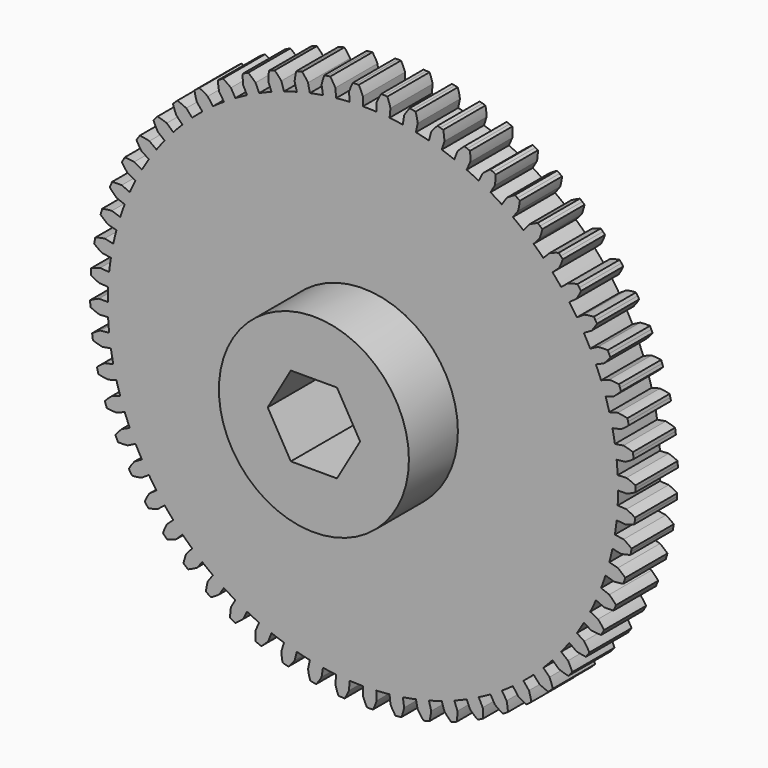
from build123d import *

# Parameters (mm, degrees)
F1_DEPTH = 6.35
F2_R     = 11.43
F3_DEPTH = 7.366
F5_DEPTH = 25.4


with BuildPart() as f1:
    # F0 (on Front) → F1 (new body)
    with BuildSketch(Plane.XZ):
        with BuildLine():
            ThreePointArc((30.649605, -1.606278), (30.681149, -0.803414), (30.691667, 0))
            ThreePointArc((30.691667, 0), (30.681149, 0.803414), (30.649605, 1.606278))
            ThreePointArc((30.649605, 1.606278), (30.597055, 2.40804), (30.523535, 3.208153))
            ThreePointArc((30.523535, 3.208153), (30.429095, 4.006066), (30.313801, 4.801234))
            ThreePointArc((30.313801, 4.801234), (30.177732, 5.593112), (30.02098, 6.381156))
            ThreePointArc((30.02098, 6.381156), (29.843653, 7.164827), (29.645873, 7.943588))
            ThreePointArc((29.645873, 7.943588), (29.427776, 8.716904), (29.18951, 9.484247))
            ThreePointArc((29.18951, 9.484247), (28.931238, 10.245089), (28.653139, 10.99891))
            ThreePointArc((28.653139, 10.99891), (28.355403, 11.745192), (28.038233, 12.483425))
            ThreePointArc((28.038233, 12.483425), (27.701847, 13.213103), (27.346475, 13.933725))
            ThreePointArc((27.346475, 13.933725), (26.972362, 14.644798), (26.579763, 15.345833))
            ThreePointArc((26.579763, 15.345833), (26.168948, 16.036352), (25.740198, 16.71588))
            ThreePointArc((25.740198, 16.71588), (25.293806, 17.383951), (24.83008, 18.040109))
            ThreePointArc((24.83008, 18.040109), (24.349336, 18.683903), (23.851905, 19.314892))
            ThreePointArc((23.851905, 19.314892), (23.338126, 19.932643), (22.808353, 20.536734))
            ThreePointArc((22.808353, 20.536734), (22.262948, 21.126749), (21.702286, 21.702286))
            ThreePointArc((21.702286, 21.702286), (21.126749, 22.262948), (20.536734, 22.808353))
            ThreePointArc((20.536734, 22.808353), (19.932643, 23.338126), (19.314892, 23.851905))
            ThreePointArc((19.314892, 23.851905), (18.683903, 24.349336), (18.040109, 24.83008))
            ThreePointArc((18.040109, 24.83008), (17.383951, 25.293806), (16.71588, 25.740198))
            ThreePointArc((16.71588, 25.740198), (16.036352, 26.168948), (15.345833, 26.579763))
            ThreePointArc((15.345833, 26.579763), (14.644798, 26.972362), (13.933725, 27.346475))
            ThreePointArc((13.933725, 27.346475), (13.213103, 27.701847), (12.483425, 28.038233))
            ThreePointArc((12.483425, 28.038233), (11.745192, 28.355403), (10.99891, 28.653139))
            ThreePointArc((10.99891, 28.653139), (10.245089, 28.931238), (9.484247, 29.18951))
            ThreePointArc((9.484247, 29.18951), (8.716904, 29.427776), (7.943588, 29.645873))
            ThreePointArc((7.943588, 29.645873), (7.164827, 29.843653), (6.381156, 30.02098))
            ThreePointArc((6.381156, 30.02098), (5.593112, 30.177732), (4.801234, 30.313801))
            ThreePointArc((4.801234, 30.313801), (4.006066, 30.429095), (3.208153, 30.523535))
            ThreePointArc((3.208153, 30.523535), (2.40804, 30.597055), (1.606278, 30.649605))
            ThreePointArc((1.606278, 30.649605), (0.803414, 30.681149), (0, 30.691667))
            ThreePointArc((0, 30.691667), (-0.803414, 30.681149), (-1.606278, 30.649605))
            ThreePointArc((-1.606278, 30.649605), (-2.40804, 30.597055), (-3.208153, 30.523535))
            ThreePointArc((-3.208153, 30.523535), (-4.006066, 30.429095), (-4.801234, 30.313801))
            ThreePointArc((-4.801234, 30.313801), (-5.593112, 30.177732), (-6.381156, 30.02098))
            ThreePointArc((-6.381156, 30.02098), (-7.164827, 29.843653), (-7.943588, 29.645873))
            ThreePointArc((-7.943588, 29.645873), (-8.716904, 29.427776), (-9.484247, 29.18951))
            ThreePointArc((-9.484247, 29.18951), (-10.245089, 28.931238), (-10.99891, 28.653139))
            ThreePointArc((-10.99891, 28.653139), (-11.745192, 28.355403), (-12.483425, 28.038233))
            ThreePointArc((-12.483425, 28.038233), (-13.213103, 27.701847), (-13.933725, 27.346475))
            ThreePointArc((-13.933725, 27.346475), (-14.644798, 26.972362), (-15.345833, 26.579763))
            ThreePointArc((-15.345833, 26.579763), (-16.036352, 26.168948), (-16.71588, 25.740198))
            ThreePointArc((-16.71588, 25.740198), (-17.383951, 25.293806), (-18.040109, 24.83008))
            ThreePointArc((-18.040109, 24.83008), (-18.683903, 24.349336), (-19.314892, 23.851905))
            ThreePointArc((-19.314892, 23.851905), (-19.932643, 23.338126), (-20.536734, 22.808353))
            ThreePointArc((-20.536734, 22.808353), (-21.126749, 22.262948), (-21.702286, 21.702286))
            ThreePointArc((-21.702286, 21.702286), (-22.262948, 21.126749), (-22.808353, 20.536734))
            ThreePointArc((-22.808353, 20.536734), (-23.338126, 19.932643), (-23.851905, 19.314892))
            ThreePointArc((-23.851905, 19.314892), (-24.349336, 18.683903), (-24.83008, 18.040109))
            ThreePointArc((-24.83008, 18.040109), (-25.293806, 17.383951), (-25.740198, 16.71588))
            ThreePointArc((-25.740198, 16.71588), (-26.168948, 16.036352), (-26.579763, 15.345833))
            ThreePointArc((-26.579763, 15.345833), (-26.972362, 14.644798), (-27.346475, 13.933725))
            ThreePointArc((-27.346475, 13.933725), (-27.701847, 13.213103), (-28.038233, 12.483425))
            ThreePointArc((-28.038233, 12.483425), (-28.355403, 11.745192), (-28.653139, 10.99891))
            ThreePointArc((-28.653139, 10.99891), (-28.931238, 10.245089), (-29.18951, 9.484247))
            ThreePointArc((-29.18951, 9.484247), (-29.427776, 8.716904), (-29.645873, 7.943588))
            ThreePointArc((-29.645873, 7.943588), (-29.843653, 7.164827), (-30.02098, 6.381156))
            ThreePointArc((-30.02098, 6.381156), (-30.177732, 5.593112), (-30.313801, 4.801234))
            ThreePointArc((-30.313801, 4.801234), (-30.429095, 4.006066), (-30.523535, 3.208153))
            ThreePointArc((-30.523535, 3.208153), (-30.597055, 2.40804), (-30.649605, 1.606278))
            ThreePointArc((-30.649605, 1.606278), (-30.681149, 0.803414), (-30.691667, 0))
            ThreePointArc((-30.691667, 0), (-30.681149, -0.803414), (-30.649605, -1.606278))
            ThreePointArc((-30.649605, -1.606278), (-30.597055, -2.40804), (-30.523535, -3.208153))
            ThreePointArc((-30.523535, -3.208153), (-30.429095, -4.006066), (-30.313801, -4.801234))
            ThreePointArc((-30.313801, -4.801234), (-30.177732, -5.593112), (-30.02098, -6.381156))
            ThreePointArc((-30.02098, -6.381156), (-29.843653, -7.164827), (-29.645873, -7.943588))
            ThreePointArc((-29.645873, -7.943588), (-29.427776, -8.716904), (-29.18951, -9.484247))
            ThreePointArc((-29.18951, -9.484247), (-28.931238, -10.245089), (-28.653139, -10.99891))
            ThreePointArc((-28.653139, -10.99891), (-28.355403, -11.745192), (-28.038233, -12.483425))
            ThreePointArc((-28.038233, -12.483425), (-27.701847, -13.213103), (-27.346475, -13.933725))
            ThreePointArc((-27.346475, -13.933725), (-26.972362, -14.644798), (-26.579763, -15.345833))
            ThreePointArc((-26.579763, -15.345833), (-26.168948, -16.036352), (-25.740198, -16.71588))
            ThreePointArc((-25.740198, -16.71588), (-25.293806, -17.383951), (-24.83008, -18.040109))
            ThreePointArc((-24.83008, -18.040109), (-24.349336, -18.683903), (-23.851905, -19.314892))
            ThreePointArc((-23.851905, -19.314892), (-23.338126, -19.932643), (-22.808353, -20.536734))
            ThreePointArc((-22.808353, -20.536734), (-22.262948, -21.126749), (-21.702286, -21.702286))
            ThreePointArc((-21.702286, -21.702286), (-21.126749, -22.262948), (-20.536734, -22.808353))
            ThreePointArc((-20.536734, -22.808353), (-19.932643, -23.338126), (-19.314892, -23.851905))
            ThreePointArc((-19.314892, -23.851905), (-18.683903, -24.349336), (-18.040109, -24.83008))
            ThreePointArc((-18.040109, -24.83008), (-17.383951, -25.293806), (-16.71588, -25.740198))
            ThreePointArc((-16.71588, -25.740198), (-16.036352, -26.168948), (-15.345833, -26.579763))
            ThreePointArc((-15.345833, -26.579763), (-14.644798, -26.972362), (-13.933725, -27.346475))
            ThreePointArc((-13.933725, -27.346475), (-13.213103, -27.701847), (-12.483425, -28.038233))
            ThreePointArc((-12.483425, -28.038233), (-11.745192, -28.355403), (-10.99891, -28.653139))
            ThreePointArc((-10.99891, -28.653139), (-10.245089, -28.931238), (-9.484247, -29.18951))
            ThreePointArc((-9.484247, -29.18951), (-8.716904, -29.427776), (-7.943588, -29.645873))
            ThreePointArc((-7.943588, -29.645873), (-7.164827, -29.843653), (-6.381156, -30.02098))
            ThreePointArc((-6.381156, -30.02098), (-5.593112, -30.177732), (-4.801234, -30.313801))
            ThreePointArc((-4.801234, -30.313801), (-4.006066, -30.429095), (-3.208153, -30.523535))
            ThreePointArc((-3.208153, -30.523535), (-2.40804, -30.597055), (-1.606278, -30.649605))
            ThreePointArc((-1.606278, -30.649605), (-0.803414, -30.681149), (0, -30.691667))
            ThreePointArc((0, -30.691667), (0.803414, -30.681149), (1.606278, -30.649605))
            ThreePointArc((1.606278, -30.649605), (2.40804, -30.597055), (3.208153, -30.523535))
            ThreePointArc((3.208153, -30.523535), (4.006066, -30.429095), (4.801234, -30.313801))
            ThreePointArc((4.801234, -30.313801), (5.593112, -30.177732), (6.381156, -30.02098))
            ThreePointArc((6.381156, -30.02098), (7.164827, -29.843653), (7.943588, -29.645873))
            ThreePointArc((7.943588, -29.645873), (8.716904, -29.427776), (9.484247, -29.18951))
            ThreePointArc((9.484247, -29.18951), (10.245089, -28.931238), (10.99891, -28.653139))
            ThreePointArc((10.99891, -28.653139), (11.745192, -28.355403), (12.483425, -28.038233))
            ThreePointArc((12.483425, -28.038233), (13.213103, -27.701847), (13.933725, -27.346475))
            ThreePointArc((13.933725, -27.346475), (14.644798, -26.972362), (15.345833, -26.579763))
            ThreePointArc((15.345833, -26.579763), (16.036352, -26.168948), (16.71588, -25.740198))
            ThreePointArc((16.71588, -25.740198), (17.383951, -25.293806), (18.040109, -24.83008))
            ThreePointArc((18.040109, -24.83008), (18.683903, -24.349336), (19.314892, -23.851905))
            ThreePointArc((19.314892, -23.851905), (19.932643, -23.338126), (20.536734, -22.808353))
            ThreePointArc((20.536734, -22.808353), (21.126749, -22.262948), (21.702286, -21.702286))
            ThreePointArc((21.702286, -21.702286), (22.262948, -21.126749), (22.808353, -20.536734))
            ThreePointArc((22.808353, -20.536734), (23.338126, -19.932643), (23.851905, -19.314892))
            ThreePointArc((23.851905, -19.314892), (24.349336, -18.683903), (24.83008, -18.040109))
            ThreePointArc((24.83008, -18.040109), (25.293806, -17.383951), (25.740198, -16.71588))
            ThreePointArc((25.740198, -16.71588), (26.168948, -16.036352), (26.579763, -15.345833))
            ThreePointArc((26.579763, -15.345833), (26.972362, -14.644798), (27.346475, -13.933725))
            ThreePointArc((27.346475, -13.933725), (27.701847, -13.213103), (28.038233, -12.483425))
            ThreePointArc((28.038233, -12.483425), (28.355403, -11.745192), (28.653139, -10.99891))
            ThreePointArc((28.653139, -10.99891), (28.931238, -10.245089), (29.18951, -9.484247))
            ThreePointArc((29.18951, -9.484247), (29.427776, -8.716904), (29.645873, -7.943588))
            ThreePointArc((29.645873, -7.943588), (29.843653, -7.164827), (30.02098, -6.381156))
            ThreePointArc((30.02098, -6.381156), (30.177732, -5.593112), (30.313801, -4.801234))
            ThreePointArc((30.313801, -4.801234), (30.429095, -4.006066), (30.523535, -3.208153))
            ThreePointArc((30.523535, -3.208153), (30.597055, -2.40804), (30.649605, -1.606278))
        make_face()
        with BuildLine():
            Line((1.661667, -31.706488), (1.606278, -30.649605))
            ThreePointArc((1.606278, -30.649605), (0.803414, -30.681149), (0, -30.691667))
            Line((0, -30.691667), (0, -31.75))
            ThreePointArc((0, -31.75), (0.22927, -32.286426), (0.497319, -32.804564))
            ThreePointArc((0.497319, -32.804564), (0.678081, -32.801325), (0.858822, -32.797091))
            ThreePointArc((0.858822, -32.797091), (1.039537, -32.79186), (1.220221, -32.785634))
            ThreePointArc((1.220221, -32.785634), (1.460785, -32.254177), (1.661667, -31.706488))
        make_face()
        with BuildLine():
            ThreePointArc((-30.649605, 1.606278), (-30.597055, 2.40804), (-30.523535, 3.208153))
            Line((-30.523535, 3.208153), (-31.57607, 3.318779))
            ThreePointArc((-31.57607, 3.318779), (-32.133523, 3.146836), (-32.676841, 2.934416))
            ThreePointArc((-32.676841, 2.934416), (-32.692515, 2.754306), (-32.707196, 2.574112))
            ThreePointArc((-32.707196, 2.574112), (-32.720884, 2.39384), (-32.733579, 2.213496))
            ThreePointArc((-32.733579, 2.213496), (-32.230179, 1.918697), (-31.706488, 1.661667))
            Line((-31.706488, 1.661667), (-30.649605, 1.606278))
        make_face()
        with BuildLine():
            Line((-31.706488, -1.661667), (-30.649605, -1.606278))
            ThreePointArc((-30.649605, -1.606278), (-30.681149, -0.803414), (-30.691667, 0))
            Line((-30.691667, 0), (-31.75, 0))
            ThreePointArc((-31.75, 0), (-32.286426, -0.22927), (-32.804564, -0.497319))
            ThreePointArc((-32.804564, -0.497319), (-32.801325, -0.678081), (-32.797091, -0.858822))
            ThreePointArc((-32.797091, -0.858822), (-32.79186, -1.039537), (-32.785634, -1.220221))
            ThreePointArc((-32.785634, -1.220221), (-32.254177, -1.460785), (-31.706488, -1.661667))
        make_face()
        with BuildLine():
            ThreePointArc((-21.702286, 21.702286), (-21.126749, 22.262948), (-20.536734, 22.808353))
            Line((-20.536734, 22.808353), (-21.244897, 23.594848))
            ThreePointArc((-21.244897, 23.594848), (-21.774217, 23.840079), (-22.320118, 24.045771))
            ThreePointArc((-22.320118, 24.045771), (-22.452283, 23.922411), (-22.583766, 23.798324))
            ThreePointArc((-22.583766, 23.798324), (-22.714564, 23.673515), (-22.844672, 23.547987))
            ThreePointArc((-22.844672, 23.547987), (-22.667832, 22.992069), (-22.45064, 22.45064))
            Line((-22.45064, 22.45064), (-21.702286, 21.702286))
        make_face()
        with BuildLine():
            Line((28.289457, -14.414198), (27.346475, -13.933725))
            ThreePointArc((27.346475, -13.933725), (26.972362, -14.644798), (26.579763, -15.345833))
            Line((26.579763, -15.345833), (27.496307, -15.875))
            ThreePointArc((27.496307, -15.875), (28.0755, -15.944659), (28.658245, -15.971591))
            ThreePointArc((28.658245, -15.971591), (28.745821, -15.813427), (28.832525, -15.654784))
            ThreePointArc((28.832525, -15.654784), (28.918353, -15.495665), (29.003302, -15.336075))
            ThreePointArc((29.003302, -15.336075), (28.66333, -14.862012), (28.289457, -14.414198))
        make_face()
        with BuildLine():
            Line((-17.292289, -26.627791), (-16.71588, -25.740198))
            ThreePointArc((-16.71588, -25.740198), (-17.383951, -25.293806), (-18.040109, -24.83008))
            Line((-18.040109, -24.83008), (-18.662182, -25.68629))
            ThreePointArc((-18.662182, -25.68629), (-18.792001, -26.255029), (-18.879699, -26.831766))
            ThreePointArc((-18.879699, -26.831766), (-18.731556, -26.935396), (-18.582845, -27.038207))
            ThreePointArc((-18.582845, -27.038207), (-18.433569, -27.140197), (-18.283733, -27.241363))
            ThreePointArc((-18.283733, -27.241363), (-17.77673, -26.952806), (-17.292289, -26.627791))
        make_face()
        with BuildLine():
            Line((-8.217505, -30.668145), (-7.943588, -29.645873))
            ThreePointArc((-7.943588, -29.645873), (-8.716904, -29.427776), (-9.484247, -29.18951))
            Line((-9.484247, -29.18951), (-9.81129, -30.196044))
            ThreePointArc((-9.81129, -30.196044), (-9.759005, -30.777064), (-9.664189, -31.352674))
            ThreePointArc((-9.664189, -31.352674), (-9.491274, -31.405453), (-9.31807, -31.457277))
            ThreePointArc((-9.31807, -31.457277), (-9.144583, -31.508147), (-8.970819, -31.55806))
            ThreePointArc((-8.970819, -31.55806), (-8.5778, -31.126953), (-8.217505, -30.668145))
        make_face()
        with BuildLine():
            Line((-4.966794, -31.359105), (-4.801234, -30.313801))
            ThreePointArc((-4.801234, -30.313801), (-5.593112, -30.177732), (-6.381156, -30.02098))
            Line((-6.381156, -30.02098), (-6.601196, -31.056186))
            ThreePointArc((-6.601196, -31.056186), (-6.488465, -31.628558), (-6.334001, -32.191104))
            ThreePointArc((-6.334001, -32.191104), (-6.156516, -32.225519), (-5.978844, -32.258955))
            ThreePointArc((-5.978844, -32.258955), (-5.80099, -32.291411), (-5.622961, -32.322887))
            ThreePointArc((-5.622961, -32.322887), (-5.277157, -31.853061), (-4.966794, -31.359105))
        make_face()
        with BuildLine():
            ThreePointArc((-29.645873, 7.943588), (-29.427776, 8.716904), (-29.18951, 9.484247))
            Line((-29.18951, 9.484247), (-30.196044, 9.81129))
            ThreePointArc((-30.196044, 9.81129), (-30.777064, 9.759005), (-31.352674, 9.664189))
            ThreePointArc((-31.352674, 9.664189), (-31.405453, 9.491274), (-31.457277, 9.31807))
            ThreePointArc((-31.457277, 9.31807), (-31.508147, 9.144583), (-31.55806, 8.970819))
            ThreePointArc((-31.55806, 8.970819), (-31.126953, 8.5778), (-30.668145, 8.217505))
            Line((-30.668145, 8.217505), (-29.645873, 7.943588))
        make_face()
        with BuildLine():
            Line((-1.661667, -31.706488), (-1.606278, -30.649605))
            ThreePointArc((-1.606278, -30.649605), (-2.40804, -30.597055), (-3.208153, -30.523535))
            Line((-3.208153, -30.523535), (-3.318779, -31.57607))
            ThreePointArc((-3.318779, -31.57607), (-3.146836, -32.133523), (-2.934416, -32.676841))
            ThreePointArc((-2.934416, -32.676841), (-2.754306, -32.692515), (-2.574112, -32.707196))
            ThreePointArc((-2.574112, -32.707196), (-2.39384, -32.720884), (-2.213496, -32.733579))
            ThreePointArc((-2.213496, -32.733579), (-1.918697, -32.230179), (-1.661667, -31.706488))
        make_face()
        with BuildLine():
            ThreePointArc((-30.313801, 4.801234), (-30.177732, 5.593112), (-30.02098, 6.381156))
            Line((-30.02098, 6.381156), (-31.056186, 6.601196))
            ThreePointArc((-31.056186, 6.601196), (-31.628558, 6.488465), (-32.191104, 6.334001))
            ThreePointArc((-32.191104, 6.334001), (-32.225519, 6.156516), (-32.258955, 5.978844))
            ThreePointArc((-32.258955, 5.978844), (-32.291411, 5.80099), (-32.322887, 5.622961))
            ThreePointArc((-32.322887, 5.622961), (-31.853061, 5.277157), (-31.359105, 4.966794))
            Line((-31.359105, 4.966794), (-30.313801, 4.801234))
        make_face()
        with BuildLine():
            ThreePointArc((19.314892, 23.851905), (19.932643, 23.338126), (20.536734, 22.808353))
            Line((20.536734, 22.808353), (21.244897, 23.594848))
            ThreePointArc((21.244897, 23.594848), (21.433455, 24.146902), (21.580958, 24.711313))
            ThreePointArc((21.580958, 24.711313), (21.444458, 24.82986), (21.307308, 24.947652))
            ThreePointArc((21.307308, 24.947652), (21.169511, 25.064687), (21.03107, 25.180961))
            ThreePointArc((21.03107, 25.180961), (20.496682, 24.946981), (19.980922, 24.674384))
            Line((19.980922, 24.674384), (19.314892, 23.851905))
        make_face()
        with BuildLine():
            ThreePointArc((16.71588, 25.740198), (17.383951, 25.293806), (18.040109, 24.83008))
            Line((18.040109, 24.83008), (18.662182, 25.68629))
            ThreePointArc((18.662182, 25.68629), (18.792001, 26.255029), (18.879699, 26.831766))
            ThreePointArc((18.879699, 26.831766), (18.731556, 26.935396), (18.582845, 27.038207))
            ThreePointArc((18.582845, 27.038207), (18.433569, 27.140197), (18.283733, 27.241363))
            ThreePointArc((18.283733, 27.241363), (17.77673, 26.952806), (17.292289, 26.627791))
            Line((17.292289, 26.627791), (16.71588, 25.740198))
        make_face()
        with BuildLine():
            ThreePointArc((13.933725, 27.346475), (14.644798, 26.972362), (15.345833, 26.579763))
            Line((15.345833, 26.579763), (15.875, 27.496307))
            ThreePointArc((15.875, 27.496307), (15.944659, 28.0755), (15.971591, 28.658245))
            ThreePointArc((15.971591, 28.658245), (15.813427, 28.745821), (15.654784, 28.832525))
            ThreePointArc((15.654784, 28.832525), (15.495665, 28.918353), (15.336075, 29.003302))
            ThreePointArc((15.336075, 29.003302), (14.862012, 28.66333), (14.414198, 28.289457))
            Line((14.414198, 28.289457), (13.933725, 27.346475))
        make_face()
        with BuildLine():
            Line((-31.359105, -4.966794), (-30.313801, -4.801234))
            ThreePointArc((-30.313801, -4.801234), (-30.429095, -4.006066), (-30.523535, -3.208153))
            Line((-30.523535, -3.208153), (-31.57607, -3.318779))
            ThreePointArc((-31.57607, -3.318779), (-32.085592, -3.602865), (-32.572873, -3.923605))
            ThreePointArc((-32.572873, -3.923605), (-32.550757, -4.103038), (-32.527653, -4.282347))
            ThreePointArc((-32.527653, -4.282347), (-32.503562, -4.461525), (-32.478483, -4.640568))
            ThreePointArc((-32.478483, -4.640568), (-31.924792, -4.824262), (-31.359105, -4.966794))
        make_face()
        with BuildLine():
            Line((8.217505, -30.668145), (7.943588, -29.645873))
            ThreePointArc((7.943588, -29.645873), (7.164827, -29.843653), (6.381156, -30.02098))
            Line((6.381156, -30.02098), (6.601196, -31.056186))
            ThreePointArc((6.601196, -31.056186), (6.936985, -31.533222), (7.306904, -31.984307))
            ThreePointArc((7.306904, -31.984307), (7.483042, -31.943557), (7.658953, -31.901836))
            ThreePointArc((7.658953, -31.901836), (7.834632, -31.859147), (8.010073, -31.815491))
            ThreePointArc((8.010073, -31.815491), (8.134884, -31.245632), (8.217505, -30.668145))
        make_face()
        with BuildLine():
            Line((4.966794, -31.359105), (4.801234, -30.313801))
            ThreePointArc((4.801234, -30.313801), (4.006066, -30.429095), (3.208153, -30.523535))
            Line((3.208153, -30.523535), (3.318779, -31.57607))
            ThreePointArc((3.318779, -31.57607), (3.602865, -32.085592), (3.923605, -32.572873))
            ThreePointArc((3.923605, -32.572873), (4.103038, -32.550757), (4.282347, -32.527653))
            ThreePointArc((4.282347, -32.527653), (4.461525, -32.503562), (4.640568, -32.478483))
            ThreePointArc((4.640568, -32.478483), (4.824262, -31.924792), (4.966794, -31.359105))
        make_face()
        with BuildLine():
            ThreePointArc((-4.801234, 30.313801), (-4.006066, 30.429095), (-3.208153, 30.523535))
            Line((-3.208153, 30.523535), (-3.318779, 31.57607))
            ThreePointArc((-3.318779, 31.57607), (-3.602865, 32.085592), (-3.923605, 32.572873))
            ThreePointArc((-3.923605, 32.572873), (-4.103038, 32.550757), (-4.282347, 32.527653))
            ThreePointArc((-4.282347, 32.527653), (-4.461525, 32.503562), (-4.640568, 32.478483))
            ThreePointArc((-4.640568, 32.478483), (-4.824262, 31.924792), (-4.966794, 31.359105))
            Line((-4.966794, 31.359105), (-4.801234, 30.313801))
        make_face()
        with BuildLine():
            Line((11.378182, -29.641179), (10.99891, -28.653139))
            ThreePointArc((10.99891, -28.653139), (10.245089, -28.931238), (9.484247, -29.18951))
            Line((9.484247, -29.18951), (9.81129, -30.196044))
            ThreePointArc((9.81129, -30.196044), (10.195103, -30.635367), (10.610146, -31.045314))
            ThreePointArc((10.610146, -31.045314), (10.78106, -30.986376), (10.951647, -30.926496))
            ThreePointArc((10.951647, -30.926496), (11.121901, -30.865678), (11.291817, -30.803922))
            ThreePointArc((11.291817, -30.803922), (11.356378, -30.224138), (11.378182, -29.641179))
        make_face()
        with BuildLine():
            Line((-30.668145, -8.217505), (-29.645873, -7.943588))
            ThreePointArc((-29.645873, -7.943588), (-29.843653, -7.164827), (-30.02098, -6.381156))
            Line((-30.02098, -6.381156), (-31.056186, -6.601196))
            ThreePointArc((-31.056186, -6.601196), (-31.533222, -6.936985), (-31.984307, -7.306904))
            ThreePointArc((-31.984307, -7.306904), (-31.943557, -7.483042), (-31.901836, -7.658953))
            ThreePointArc((-31.901836, -7.658953), (-31.859147, -7.834632), (-31.815491, -8.010073))
            ThreePointArc((-31.815491, -8.010073), (-31.245632, -8.134884), (-30.668145, -8.217505))
        make_face()
        with BuildLine():
            ThreePointArc((-7.943588, 29.645873), (-7.164827, 29.843653), (-6.381156, 30.02098))
            Line((-6.381156, 30.02098), (-6.601196, 31.056186))
            ThreePointArc((-6.601196, 31.056186), (-6.936985, 31.533222), (-7.306904, 31.984307))
            ThreePointArc((-7.306904, 31.984307), (-7.483042, 31.943557), (-7.658953, 31.901836))
            ThreePointArc((-7.658953, 31.901836), (-7.834632, 31.859147), (-8.010073, 31.815491))
            ThreePointArc((-8.010073, 31.815491), (-8.134884, 31.245632), (-8.217505, 30.668145))
            Line((-8.217505, 30.668145), (-7.943588, 29.645873))
        make_face()
        with BuildLine():
            Line((14.414198, -28.289457), (13.933725, -27.346475))
            ThreePointArc((13.933725, -27.346475), (13.213103, -27.701847), (12.483425, -28.038233))
            Line((12.483425, -28.038233), (12.913888, -29.005068))
            ThreePointArc((12.913888, -29.005068), (13.341521, -29.401865), (13.797142, -29.766182))
            ThreePointArc((13.797142, -29.766182), (13.960959, -29.689701), (14.124352, -29.612319))
            ThreePointArc((14.124352, -29.612319), (14.287316, -29.534037), (14.449846, -29.454859))
            ThreePointArc((14.449846, -29.454859), (14.453449, -28.871502), (14.414198, -28.289457))
        make_face()
        with BuildLine():
            ThreePointArc((-10.99891, 28.653139), (-10.245089, 28.931238), (-9.484247, 29.18951))
            Line((-9.484247, 29.18951), (-9.81129, 30.196044))
            ThreePointArc((-9.81129, 30.196044), (-10.195103, 30.635367), (-10.610146, 31.045314))
            ThreePointArc((-10.610146, 31.045314), (-10.78106, 30.986376), (-10.951647, 30.926496))
            ThreePointArc((-10.951647, 30.926496), (-11.121901, 30.865678), (-11.291817, 30.803922))
            ThreePointArc((-11.291817, 30.803922), (-11.356378, 30.224138), (-11.378182, 29.641179))
            Line((-11.378182, 29.641179), (-10.99891, 28.653139))
        make_face()
        with BuildLine():
            Line((17.292289, -26.627791), (16.71588, -25.740198))
            ThreePointArc((16.71588, -25.740198), (16.036352, -26.168948), (15.345833, -26.579763))
            Line((15.345833, -26.579763), (15.875, -27.496307))
            ThreePointArc((15.875, -27.496307), (16.341767, -27.84623), (16.832973, -28.160926))
            ThreePointArc((16.832973, -28.160926), (16.987898, -28.067741), (17.142307, -27.973703))
            ThreePointArc((17.142307, -27.973703), (17.296196, -27.878815), (17.449559, -27.783082))
            ThreePointArc((17.449559, -27.783082), (17.392166, -27.202544), (17.292289, -26.627791))
        make_face()
        with BuildLine():
            Line((-28.289457, -14.414198), (-27.346475, -13.933725))
            ThreePointArc((-27.346475, -13.933725), (-27.701847, -13.213103), (-28.038233, -12.483425))
            Line((-28.038233, -12.483425), (-29.005068, -12.913888))
            ThreePointArc((-29.005068, -12.913888), (-29.401865, -13.341521), (-29.766182, -13.797142))
            ThreePointArc((-29.766182, -13.797142), (-29.689701, -13.960959), (-29.612319, -14.124352))
            ThreePointArc((-29.612319, -14.124352), (-29.534037, -14.287316), (-29.454859, -14.449846))
            ThreePointArc((-29.454859, -14.449846), (-28.871502, -14.453449), (-28.289457, -14.414198))
        make_face()
        with BuildLine():
            ThreePointArc((-13.933725, 27.346475), (-13.213103, 27.701847), (-12.483425, 28.038233))
            Line((-12.483425, 28.038233), (-12.913888, 29.005068))
            ThreePointArc((-12.913888, 29.005068), (-13.341521, 29.401865), (-13.797142, 29.766182))
            ThreePointArc((-13.797142, 29.766182), (-13.960959, 29.689701), (-14.124352, 29.612319))
            ThreePointArc((-14.124352, 29.612319), (-14.287316, 29.534037), (-14.449846, 29.454859))
            ThreePointArc((-14.449846, 29.454859), (-14.453449, 28.871502), (-14.414198, 28.289457))
            Line((-14.414198, 28.289457), (-13.933725, 27.346475))
        make_face()
        with BuildLine():
            Line((19.980922, -24.674384), (19.314892, -23.851905))
            ThreePointArc((19.314892, -23.851905), (18.683903, -24.349336), (18.040109, -24.83008))
            Line((18.040109, -24.83008), (18.662182, -25.68629))
            ThreePointArc((18.662182, -25.68629), (19.162968, -25.985506), (19.684378, -26.247133))
            ThreePointArc((19.684378, -26.247133), (19.828714, -26.138264), (19.972448, -26.028601))
            ThreePointArc((19.972448, -26.028601), (20.115575, -25.918148), (20.258091, -25.806907))
            ThreePointArc((20.258091, -25.806907), (20.14033, -25.23555), (19.980922, -24.674384))
        make_face()
        with BuildLine():
            Line((-26.627791, -17.292289), (-25.740198, -16.71588))
            ThreePointArc((-25.740198, -16.71588), (-26.168948, -16.036352), (-26.579763, -15.345833))
            Line((-26.579763, -15.345833), (-27.496307, -15.875))
            ThreePointArc((-27.496307, -15.875), (-27.84623, -16.341767), (-28.160926, -16.832973))
            ThreePointArc((-28.160926, -16.832973), (-28.067741, -16.987898), (-27.973703, -17.142307))
            ThreePointArc((-27.973703, -17.142307), (-27.878815, -17.296196), (-27.783082, -17.449559))
            ThreePointArc((-27.783082, -17.449559), (-27.202544, -17.392166), (-26.627791, -17.292289))
        make_face()
        with BuildLine():
            ThreePointArc((-16.71588, 25.740198), (-16.036352, 26.168948), (-15.345833, 26.579763))
            Line((-15.345833, 26.579763), (-15.875, 27.496307))
            ThreePointArc((-15.875, 27.496307), (-16.341767, 27.84623), (-16.832973, 28.160926))
            ThreePointArc((-16.832973, 28.160926), (-16.987898, 28.067741), (-17.142307, 27.973703))
            ThreePointArc((-17.142307, 27.973703), (-17.296196, 27.878815), (-17.449559, 27.783082))
            ThreePointArc((-17.449559, 27.783082), (-17.392166, 27.202544), (-17.292289, 26.627791))
            Line((-17.292289, 26.627791), (-16.71588, 25.740198))
        make_face()
        with BuildLine():
            Line((22.45064, -22.45064), (21.702286, -21.702286))
            ThreePointArc((21.702286, -21.702286), (21.126749, -22.262948), (20.536734, -22.808353))
            Line((20.536734, -22.808353), (21.244897, -23.594848))
            ThreePointArc((21.244897, -23.594848), (21.774217, -23.840079), (22.320118, -24.045771))
            ThreePointArc((22.320118, -24.045771), (22.452283, -23.922411), (22.583766, -23.798324))
            ThreePointArc((22.583766, -23.798324), (22.714564, -23.673515), (22.844672, -23.547987))
            ThreePointArc((22.844672, -23.547987), (22.667832, -22.992069), (22.45064, -22.45064))
        make_face()
        with BuildLine():
            Line((-24.674384, -19.980922), (-23.851905, -19.314892))
            ThreePointArc((-23.851905, -19.314892), (-24.349336, -18.683903), (-24.83008, -18.040109))
            Line((-24.83008, -18.040109), (-25.68629, -18.662182))
            ThreePointArc((-25.68629, -18.662182), (-25.985506, -19.162968), (-26.247133, -19.684378))
            ThreePointArc((-26.247133, -19.684378), (-26.138264, -19.828714), (-26.028601, -19.972448))
            ThreePointArc((-26.028601, -19.972448), (-25.918148, -20.115575), (-25.806907, -20.258091))
            ThreePointArc((-25.806907, -20.258091), (-25.23555, -20.14033), (-24.674384, -19.980922))
        make_face()
        with BuildLine():
            ThreePointArc((-19.314892, 23.851905), (-18.683903, 24.349336), (-18.040109, 24.83008))
            Line((-18.040109, 24.83008), (-18.662182, 25.68629))
            ThreePointArc((-18.662182, 25.68629), (-19.162968, 25.985506), (-19.684378, 26.247133))
            ThreePointArc((-19.684378, 26.247133), (-19.828714, 26.138264), (-19.972448, 26.028601))
            ThreePointArc((-19.972448, 26.028601), (-20.115575, 25.918148), (-20.258091, 25.806907))
            ThreePointArc((-20.258091, 25.806907), (-20.14033, 25.23555), (-19.980922, 24.674384))
            Line((-19.980922, 24.674384), (-19.314892, 23.851905))
        make_face()
        with BuildLine():
            Line((24.674384, -19.980922), (23.851905, -19.314892))
            ThreePointArc((23.851905, -19.314892), (23.338126, -19.932643), (22.808353, -20.536734))
            Line((22.808353, -20.536734), (23.594848, -21.244897))
            ThreePointArc((23.594848, -21.244897), (24.146902, -21.433455), (24.711313, -21.580958))
            ThreePointArc((24.711313, -21.580958), (24.82986, -21.444458), (24.947652, -21.307308))
            ThreePointArc((24.947652, -21.307308), (25.064687, -21.169511), (25.180961, -21.03107))
            ThreePointArc((25.180961, -21.03107), (24.946981, -20.496682), (24.674384, -19.980922))
        make_face()
        with BuildLine():
            Line((-22.45064, -22.45064), (-21.702286, -21.702286))
            ThreePointArc((-21.702286, -21.702286), (-22.262948, -21.126749), (-22.808353, -20.536734))
            Line((-22.808353, -20.536734), (-23.594848, -21.244897))
            ThreePointArc((-23.594848, -21.244897), (-23.840079, -21.774217), (-24.045771, -22.320118))
            ThreePointArc((-24.045771, -22.320118), (-23.922411, -22.452283), (-23.798324, -22.583766))
            ThreePointArc((-23.798324, -22.583766), (-23.673515, -22.714564), (-23.547987, -22.844672))
            ThreePointArc((-23.547987, -22.844672), (-22.992069, -22.667832), (-22.45064, -22.45064))
        make_face()
        with BuildLine():
            Line((26.627791, -17.292289), (25.740198, -16.71588))
            ThreePointArc((25.740198, -16.71588), (25.293806, -17.383951), (24.83008, -18.040109))
            Line((24.83008, -18.040109), (25.68629, -18.662182))
            ThreePointArc((25.68629, -18.662182), (26.255029, -18.792001), (26.831766, -18.879699))
            ThreePointArc((26.831766, -18.879699), (26.935396, -18.731556), (27.038207, -18.582845))
            ThreePointArc((27.038207, -18.582845), (27.140197, -18.433569), (27.241363, -18.283733))
            ThreePointArc((27.241363, -18.283733), (26.952806, -17.77673), (26.627791, -17.292289))
        make_face()
        with BuildLine():
            Line((-19.980922, -24.674384), (-19.314892, -23.851905))
            ThreePointArc((-19.314892, -23.851905), (-19.932643, -23.338126), (-20.536734, -22.808353))
            Line((-20.536734, -22.808353), (-21.244897, -23.594848))
            ThreePointArc((-21.244897, -23.594848), (-21.433455, -24.146902), (-21.580958, -24.711313))
            ThreePointArc((-21.580958, -24.711313), (-21.444458, -24.82986), (-21.307308, -24.947652))
            ThreePointArc((-21.307308, -24.947652), (-21.169511, -25.064687), (-21.03107, -25.180961))
            ThreePointArc((-21.03107, -25.180961), (-20.496682, -24.946981), (-19.980922, -24.674384))
        make_face()
        with BuildLine():
            ThreePointArc((-23.851905, 19.314892), (-23.338126, 19.932643), (-22.808353, 20.536734))
            Line((-22.808353, 20.536734), (-23.594848, 21.244897))
            ThreePointArc((-23.594848, 21.244897), (-24.146902, 21.433455), (-24.711313, 21.580958))
            ThreePointArc((-24.711313, 21.580958), (-24.82986, 21.444458), (-24.947652, 21.307308))
            ThreePointArc((-24.947652, 21.307308), (-25.064687, 21.169511), (-25.180961, 21.03107))
            ThreePointArc((-25.180961, 21.03107), (-24.946981, 20.496682), (-24.674384, 19.980922))
            Line((-24.674384, 19.980922), (-23.851905, 19.314892))
        make_face()
        with BuildLine():
            Line((29.641179, -11.378182), (28.653139, -10.99891))
            ThreePointArc((28.653139, -10.99891), (28.355403, -11.745192), (28.038233, -12.483425))
            Line((28.038233, -12.483425), (29.005068, -12.913888))
            ThreePointArc((29.005068, -12.913888), (29.58837, -12.922624), (30.170738, -12.888495))
            ThreePointArc((30.170738, -12.888495), (30.241302, -12.722043), (30.310948, -12.555206))
            ThreePointArc((30.310948, -12.555206), (30.379673, -12.387987), (30.447476, -12.220392))
            ThreePointArc((30.447476, -12.220392), (30.059812, -11.784462), (29.641179, -11.378182))
        make_face()
        with BuildLine():
            Line((30.668145, -8.217505), (29.645873, -7.943588))
            ThreePointArc((29.645873, -7.943588), (29.427776, -8.716904), (29.18951, -9.484247))
            Line((29.18951, -9.484247), (30.196044, -9.81129))
            ThreePointArc((30.196044, -9.81129), (30.777064, -9.759005), (31.352674, -9.664189))
            ThreePointArc((31.352674, -9.664189), (31.405453, -9.491274), (31.457277, -9.31807))
            ThreePointArc((31.457277, -9.31807), (31.508147, -9.144583), (31.55806, -8.970819))
            ThreePointArc((31.55806, -8.970819), (31.126953, -8.5778), (30.668145, -8.217505))
        make_face()
        with BuildLine():
            Line((-11.378182, -29.641179), (-10.99891, -28.653139))
            ThreePointArc((-10.99891, -28.653139), (-11.745192, -28.355403), (-12.483425, -28.038233))
            Line((-12.483425, -28.038233), (-12.913888, -29.005068))
            ThreePointArc((-12.913888, -29.005068), (-12.922624, -29.58837), (-12.888495, -30.170738))
            ThreePointArc((-12.888495, -30.170738), (-12.722043, -30.241302), (-12.555206, -30.310948))
            ThreePointArc((-12.555206, -30.310948), (-12.387987, -30.379673), (-12.220392, -30.447476))
            ThreePointArc((-12.220392, -30.447476), (-11.784462, -30.059812), (-11.378182, -29.641179))
        make_face()
        with BuildLine():
            ThreePointArc((-27.346475, 13.933725), (-26.972362, 14.644798), (-26.579763, 15.345833))
            Line((-26.579763, 15.345833), (-27.496307, 15.875))
            ThreePointArc((-27.496307, 15.875), (-28.0755, 15.944659), (-28.658245, 15.971591))
            ThreePointArc((-28.658245, 15.971591), (-28.745821, 15.813427), (-28.832525, 15.654784))
            ThreePointArc((-28.832525, 15.654784), (-28.918353, 15.495665), (-29.003302, 15.336075))
            ThreePointArc((-29.003302, 15.336075), (-28.66333, 14.862012), (-28.289457, 14.414198))
            Line((-28.289457, 14.414198), (-27.346475, 13.933725))
        make_face()
        with BuildLine():
            Line((31.359105, -4.966794), (30.313801, -4.801234))
            ThreePointArc((30.313801, -4.801234), (30.177732, -5.593112), (30.02098, -6.381156))
            Line((30.02098, -6.381156), (31.056186, -6.601196))
            ThreePointArc((31.056186, -6.601196), (31.628558, -6.488465), (32.191104, -6.334001))
            ThreePointArc((32.191104, -6.334001), (32.225519, -6.156516), (32.258955, -5.978844))
            ThreePointArc((32.258955, -5.978844), (32.291411, -5.80099), (32.322887, -5.622961))
            ThreePointArc((32.322887, -5.622961), (31.853061, -5.277157), (31.359105, -4.966794))
        make_face()
        with BuildLine():
            Line((31.706488, -1.661667), (30.649605, -1.606278))
            ThreePointArc((30.649605, -1.606278), (30.597055, -2.40804), (30.523535, -3.208153))
            Line((30.523535, -3.208153), (31.57607, -3.318779))
            ThreePointArc((31.57607, -3.318779), (32.133523, -3.146836), (32.676841, -2.934416))
            ThreePointArc((32.676841, -2.934416), (32.692515, -2.754306), (32.707196, -2.574112))
            ThreePointArc((32.707196, -2.574112), (32.720884, -2.39384), (32.733579, -2.213496))
            ThreePointArc((32.733579, -2.213496), (32.230179, -1.918697), (31.706488, -1.661667))
        make_face()
        with BuildLine():
            ThreePointArc((-1.606278, 30.649605), (-0.803414, 30.681149), (0, 30.691667))
            Line((0, 30.691667), (0, 31.75))
            ThreePointArc((0, 31.75), (-0.22927, 32.286426), (-0.497319, 32.804564))
            ThreePointArc((-0.497319, 32.804564), (-0.678081, 32.801325), (-0.858822, 32.797091))
            ThreePointArc((-0.858822, 32.797091), (-1.039537, 32.79186), (-1.220221, 32.785634))
            ThreePointArc((-1.220221, 32.785634), (-1.460785, 32.254177), (-1.661667, 31.706488))
            Line((-1.661667, 31.706488), (-1.606278, 30.649605))
        make_face()
        with BuildLine():
            ThreePointArc((4.801234, 30.313801), (5.593112, 30.177732), (6.381156, 30.02098))
            Line((6.381156, 30.02098), (6.601196, 31.056186))
            ThreePointArc((6.601196, 31.056186), (6.488465, 31.628558), (6.334001, 32.191104))
            ThreePointArc((6.334001, 32.191104), (6.156516, 32.225519), (5.978844, 32.258955))
            ThreePointArc((5.978844, 32.258955), (5.80099, 32.291411), (5.622961, 32.322887))
            ThreePointArc((5.622961, 32.322887), (5.277157, 31.853061), (4.966794, 31.359105))
            Line((4.966794, 31.359105), (4.801234, 30.313801))
        make_face()
        with BuildLine():
            ThreePointArc((1.606278, 30.649605), (2.40804, 30.597055), (3.208153, 30.523535))
            Line((3.208153, 30.523535), (3.318779, 31.57607))
            ThreePointArc((3.318779, 31.57607), (3.146836, 32.133523), (2.934416, 32.676841))
            ThreePointArc((2.934416, 32.676841), (2.754306, 32.692515), (2.574112, 32.707196))
            ThreePointArc((2.574112, 32.707196), (2.39384, 32.720884), (2.213496, 32.733579))
            ThreePointArc((2.213496, 32.733579), (1.918697, 32.230179), (1.661667, 31.706488))
            Line((1.661667, 31.706488), (1.606278, 30.649605))
        make_face()
        with BuildLine():
            ThreePointArc((30.649605, 1.606278), (30.681149, 0.803414), (30.691667, 0))
            Line((30.691667, 0), (31.75, 0))
            ThreePointArc((31.75, 0), (32.286426, 0.22927), (32.804564, 0.497319))
            ThreePointArc((32.804564, 0.497319), (32.801325, 0.678081), (32.797091, 0.858822))
            ThreePointArc((32.797091, 0.858822), (32.79186, 1.039537), (32.785634, 1.220221))
            ThreePointArc((32.785634, 1.220221), (32.254177, 1.460785), (31.706488, 1.661667))
            Line((31.706488, 1.661667), (30.649605, 1.606278))
        make_face()
        with BuildLine():
            ThreePointArc((30.313801, 4.801234), (30.429095, 4.006066), (30.523535, 3.208153))
            Line((30.523535, 3.208153), (31.57607, 3.318779))
            ThreePointArc((31.57607, 3.318779), (32.085592, 3.602865), (32.572873, 3.923605))
            ThreePointArc((32.572873, 3.923605), (32.550757, 4.103038), (32.527653, 4.282347))
            ThreePointArc((32.527653, 4.282347), (32.503562, 4.461525), (32.478483, 4.640568))
            ThreePointArc((32.478483, 4.640568), (31.924792, 4.824262), (31.359105, 4.966794))
            Line((31.359105, 4.966794), (30.313801, 4.801234))
        make_face()
        with BuildLine():
            ThreePointArc((29.645873, 7.943588), (29.843653, 7.164827), (30.02098, 6.381156))
            Line((30.02098, 6.381156), (31.056186, 6.601196))
            ThreePointArc((31.056186, 6.601196), (31.533222, 6.936985), (31.984307, 7.306904))
            ThreePointArc((31.984307, 7.306904), (31.943557, 7.483042), (31.901836, 7.658953))
            ThreePointArc((31.901836, 7.658953), (31.859147, 7.834632), (31.815491, 8.010073))
            ThreePointArc((31.815491, 8.010073), (31.245632, 8.134884), (30.668145, 8.217505))
            Line((30.668145, 8.217505), (29.645873, 7.943588))
        make_face()
        with BuildLine():
            ThreePointArc((28.653139, 10.99891), (28.931238, 10.245089), (29.18951, 9.484247))
            Line((29.18951, 9.484247), (30.196044, 9.81129))
            ThreePointArc((30.196044, 9.81129), (30.635367, 10.195103), (31.045314, 10.610146))
            ThreePointArc((31.045314, 10.610146), (30.986376, 10.78106), (30.926496, 10.951647))
            ThreePointArc((30.926496, 10.951647), (30.865678, 11.121901), (30.803922, 11.291817))
            ThreePointArc((30.803922, 11.291817), (30.224138, 11.356378), (29.641179, 11.378182))
            Line((29.641179, 11.378182), (28.653139, 10.99891))
        make_face()
        with BuildLine():
            ThreePointArc((27.346475, 13.933725), (27.701847, 13.213103), (28.038233, 12.483425))
            Line((28.038233, 12.483425), (29.005068, 12.913888))
            ThreePointArc((29.005068, 12.913888), (29.401865, 13.341521), (29.766182, 13.797142))
            ThreePointArc((29.766182, 13.797142), (29.689701, 13.960959), (29.612319, 14.124352))
            ThreePointArc((29.612319, 14.124352), (29.534037, 14.287316), (29.454859, 14.449846))
            ThreePointArc((29.454859, 14.449846), (28.871502, 14.453449), (28.289457, 14.414198))
            Line((28.289457, 14.414198), (27.346475, 13.933725))
        make_face()
        with BuildLine():
            ThreePointArc((25.740198, 16.71588), (26.168948, 16.036352), (26.579763, 15.345833))
            Line((26.579763, 15.345833), (27.496307, 15.875))
            ThreePointArc((27.496307, 15.875), (27.84623, 16.341767), (28.160926, 16.832973))
            ThreePointArc((28.160926, 16.832973), (28.067741, 16.987898), (27.973703, 17.142307))
            ThreePointArc((27.973703, 17.142307), (27.878815, 17.296196), (27.783082, 17.449559))
            ThreePointArc((27.783082, 17.449559), (27.202544, 17.392166), (26.627791, 17.292289))
            Line((26.627791, 17.292289), (25.740198, 16.71588))
        make_face()
        with BuildLine():
            ThreePointArc((23.851905, 19.314892), (24.349336, 18.683903), (24.83008, 18.040109))
            Line((24.83008, 18.040109), (25.68629, 18.662182))
            ThreePointArc((25.68629, 18.662182), (25.985506, 19.162968), (26.247133, 19.684378))
            ThreePointArc((26.247133, 19.684378), (26.138264, 19.828714), (26.028601, 19.972448))
            ThreePointArc((26.028601, 19.972448), (25.918148, 20.115575), (25.806907, 20.258091))
            ThreePointArc((25.806907, 20.258091), (25.23555, 20.14033), (24.674384, 19.980922))
            Line((24.674384, 19.980922), (23.851905, 19.314892))
        make_face()
        with BuildLine():
            ThreePointArc((21.702286, 21.702286), (22.262948, 21.126749), (22.808353, 20.536734))
            Line((22.808353, 20.536734), (23.594848, 21.244897))
            ThreePointArc((23.594848, 21.244897), (23.840079, 21.774217), (24.045771, 22.320118))
            ThreePointArc((24.045771, 22.320118), (23.922411, 22.452283), (23.798324, 22.583766))
            ThreePointArc((23.798324, 22.583766), (23.673515, 22.714564), (23.547987, 22.844672))
            ThreePointArc((23.547987, 22.844672), (22.992069, 22.667832), (22.45064, 22.45064))
            Line((22.45064, 22.45064), (21.702286, 21.702286))
        make_face()
        with BuildLine():
            ThreePointArc((10.99891, 28.653139), (11.745192, 28.355403), (12.483425, 28.038233))
            Line((12.483425, 28.038233), (12.913888, 29.005068))
            ThreePointArc((12.913888, 29.005068), (12.922624, 29.58837), (12.888495, 30.170738))
            ThreePointArc((12.888495, 30.170738), (12.722043, 30.241302), (12.555206, 30.310948))
            ThreePointArc((12.555206, 30.310948), (12.387987, 30.379673), (12.220392, 30.447476))
            ThreePointArc((12.220392, 30.447476), (11.784462, 30.059812), (11.378182, 29.641179))
            Line((11.378182, 29.641179), (10.99891, 28.653139))
        make_face()
        with BuildLine():
            ThreePointArc((7.943588, 29.645873), (8.716904, 29.427776), (9.484247, 29.18951))
            Line((9.484247, 29.18951), (9.81129, 30.196044))
            ThreePointArc((9.81129, 30.196044), (9.759005, 30.777064), (9.664189, 31.352674))
            ThreePointArc((9.664189, 31.352674), (9.491274, 31.405453), (9.31807, 31.457277))
            ThreePointArc((9.31807, 31.457277), (9.144583, 31.508147), (8.970819, 31.55806))
            ThreePointArc((8.970819, 31.55806), (8.5778, 31.126953), (8.217505, 30.668145))
            Line((8.217505, 30.668145), (7.943588, 29.645873))
        make_face()
        with BuildLine():
            Line((-29.641179, -11.378182), (-28.653139, -10.99891))
            ThreePointArc((-28.653139, -10.99891), (-28.931238, -10.245089), (-29.18951, -9.484247))
            Line((-29.18951, -9.484247), (-30.196044, -9.81129))
            ThreePointArc((-30.196044, -9.81129), (-30.635367, -10.195103), (-31.045314, -10.610146))
            ThreePointArc((-31.045314, -10.610146), (-30.986376, -10.78106), (-30.926496, -10.951647))
            ThreePointArc((-30.926496, -10.951647), (-30.865678, -11.121901), (-30.803922, -11.291817))
            ThreePointArc((-30.803922, -11.291817), (-30.224138, -11.356378), (-29.641179, -11.378182))
        make_face()
        with BuildLine():
            Line((-14.414198, -28.289457), (-13.933725, -27.346475))
            ThreePointArc((-13.933725, -27.346475), (-14.644798, -26.972362), (-15.345833, -26.579763))
            Line((-15.345833, -26.579763), (-15.875, -27.496307))
            ThreePointArc((-15.875, -27.496307), (-15.944659, -28.0755), (-15.971591, -28.658245))
            ThreePointArc((-15.971591, -28.658245), (-15.813427, -28.745821), (-15.654784, -28.832525))
            ThreePointArc((-15.654784, -28.832525), (-15.495665, -28.918353), (-15.336075, -29.003302))
            ThreePointArc((-15.336075, -29.003302), (-14.862012, -28.66333), (-14.414198, -28.289457))
        make_face()
        with BuildLine():
            ThreePointArc((-25.740198, 16.71588), (-25.293806, 17.383951), (-24.83008, 18.040109))
            Line((-24.83008, 18.040109), (-25.68629, 18.662182))
            ThreePointArc((-25.68629, 18.662182), (-26.255029, 18.792001), (-26.831766, 18.879699))
            ThreePointArc((-26.831766, 18.879699), (-26.935396, 18.731556), (-27.038207, 18.582845))
            ThreePointArc((-27.038207, 18.582845), (-27.140197, 18.433569), (-27.241363, 18.283733))
            ThreePointArc((-27.241363, 18.283733), (-26.952806, 17.77673), (-26.627791, 17.292289))
            Line((-26.627791, 17.292289), (-25.740198, 16.71588))
        make_face()
        with BuildLine():
            ThreePointArc((-28.653139, 10.99891), (-28.355403, 11.745192), (-28.038233, 12.483425))
            Line((-28.038233, 12.483425), (-29.005068, 12.913888))
            ThreePointArc((-29.005068, 12.913888), (-29.58837, 12.922624), (-30.170738, 12.888495))
            ThreePointArc((-30.170738, 12.888495), (-30.241302, 12.722043), (-30.310948, 12.555206))
            ThreePointArc((-30.310948, 12.555206), (-30.379673, 12.387987), (-30.447476, 12.220392))
            ThreePointArc((-30.447476, 12.220392), (-30.059812, 11.784462), (-29.641179, 11.378182))
            Line((-29.641179, 11.378182), (-28.653139, 10.99891))
        make_face()
    extrude(amount=F1_DEPTH)

    # F2 (on face) → F3 (join)
    with BuildSketch(Plane.XZ.offset(6.35)):
        Circle(F2_R)
    extrude(amount=F3_DEPTH)

    # F4 (on face) → F5 (cut)
    with BuildSketch(Plane.XZ.offset(13.716)):
        Polygon((2.778125, -4.811854), (5.55625, 0), (2.778125, 4.811854), (-2.778125, 4.811854), (-5.55625, 0), (-2.778125, -4.811854), align=None)
    extrude(amount=-F5_DEPTH, mode=Mode.SUBTRACT)


solid = f1.part
